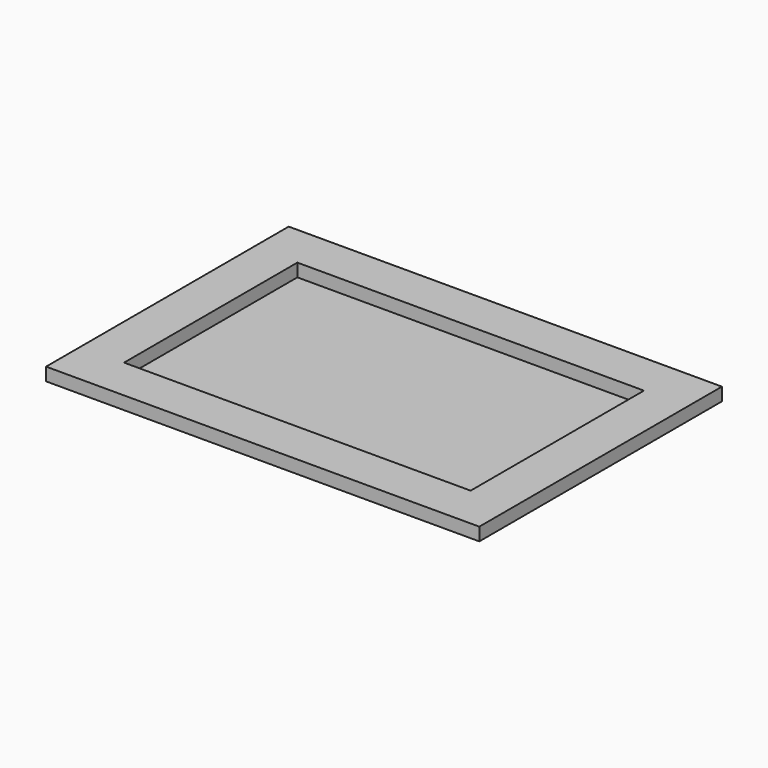
from build123d import *

# Parameters (mm, degrees)
F0_W     = 40
F0_H     = 25
F1_DEPTH = 1.5
F2_W     = 50
F2_H     = 35
F2_W_2   = 40
F2_H_2   = 25
F3_DEPTH = 1.5


with BuildPart() as f1:
    # F0 (on Top) → F1 (new body)
    with BuildSketch(Plane.XY):
        with Locations((-37.00072, 32.13218)):
            Rectangle(F0_W, F0_H)
    extrude(amount=F1_DEPTH)


with BuildPart() as f3:
    # F2 (on face) → F3 (new body)
    with BuildSketch(Plane.XY.offset(1.5)):
        with Locations((-37.00072, 32.13218)):
            Rectangle(F2_W, F2_H)
        with Locations((-37.00072, 32.13218)):
            Rectangle(F2_W_2, F2_H_2, mode=Mode.SUBTRACT)
    extrude(amount=F3_DEPTH)


solid = Compound([f1.part, f3.part])
